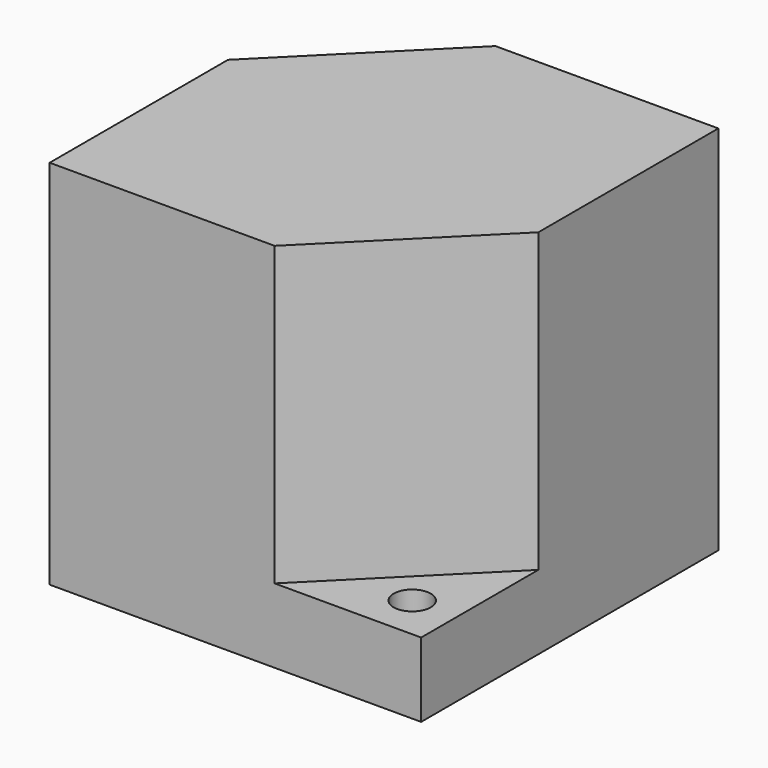
from build123d import *

# Parameters (mm, degrees)
F0_W     = 127
F0_H     = 127
F1_DEPTH = 127
F4_DEPTH = 101.6
F5_R     = 6.35
F6_DEPTH = 203.2
F7_T     = -2.54


with BuildPart() as f1:
    # F0 (on Front) → F1 (new body)
    with BuildSketch(Plane.XZ):
        with Locations((-1.222377643, -1.6671840248)):
            Rectangle(F0_W, F0_H)
    extrude(amount=F1_DEPTH)

    # F3 (on face) + F2 (on face) → F4 (cut)
    with BuildSketch(Plane.XY.offset(61.8328159752)):
        Polygon((62.8832024596, -127.1058379948), (62.8832024596, -76.3058379948), (12.0832024596, -127.1058379948), align=None)
    with BuildSketch(Plane.XY.offset(61.8328159752)):
        Polygon((-13.922377643, 0), (-64.722377643, 0), (-64.722377643, -50.8), align=None)
    extrude(amount=-F4_DEPTH, mode=Mode.SUBTRACT)

    # F5 (on face) → F6 (cut)
    with BuildSketch(Plane.XY.offset(-39.7671840248)):
        with Locations((-49.482377643, -15.24)):
            Circle(F5_R)
        with Locations((47.037622357, -111.76)):
            Circle(F5_R)
    extrude(amount=-F6_DEPTH, mode=Mode.SUBTRACT)

    # F7
    f7_openings = [f1.faces().sort_by_distance(p)[0] for p in [
        (-1.222378, -63.5, -65.167184),
    ]]
    offset(amount=F7_T, openings=f7_openings, kind=Kind.INTERSECTION)


solid = f1.part
